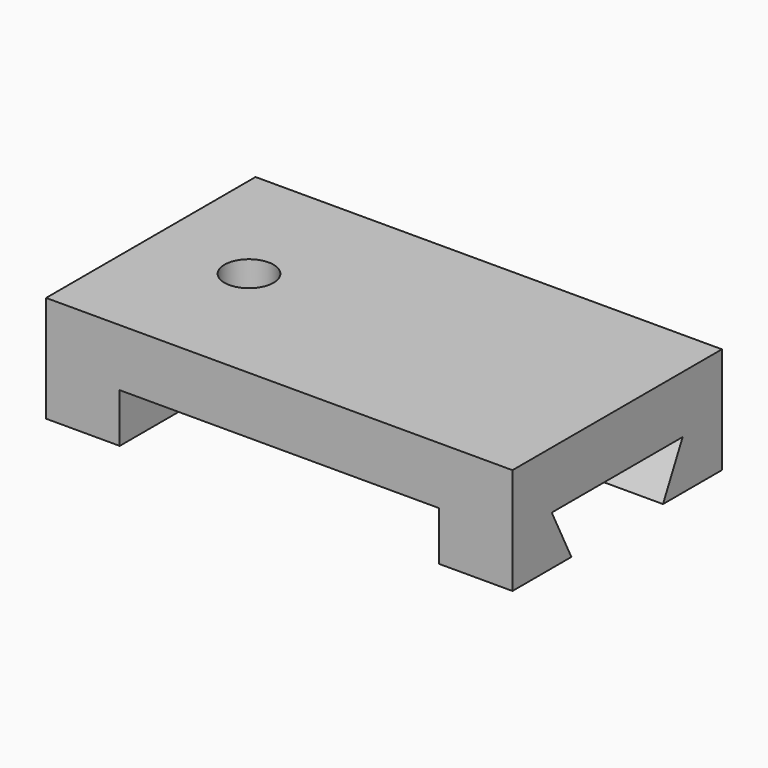
from build123d import *

# Parameters (mm, degrees)
F1_DEPTH = 32
F2_R     = 6
F3_DEPTH = 25
F6_DEPTH = 1000


with BuildPart() as f1:
    # F0 (on Front) → F1 (new body, symmetric)
    with BuildSketch(Plane.XZ):
        Polygon((-58.409637, 26), (-58.409637, 0), (-40.409637, 0), (-40.409637, 12), (37.590363, 12), (37.590363, 0), (55.590363, 0), (55.590363, 26), align=None)
    extrude(amount=F1_DEPTH, both=True)

    # F2 (on face) → F3 (cut)
    with BuildSketch(Plane.XY.offset(26)):
        with Locations((-34.409637, 0)):
            Circle(F2_R)
    extrude(amount=-F3_DEPTH, mode=Mode.SUBTRACT)

    # F5 (on face) → F6 (cut)
    with BuildSketch(Plane.YZ.offset(55.590363)):
        Polygon((-14, 0), (0, 0), (14, 0), (20, 12), (0, 12), (-20, 12), align=None)
    extrude(amount=-F6_DEPTH, mode=Mode.SUBTRACT)


solid = f1.part
